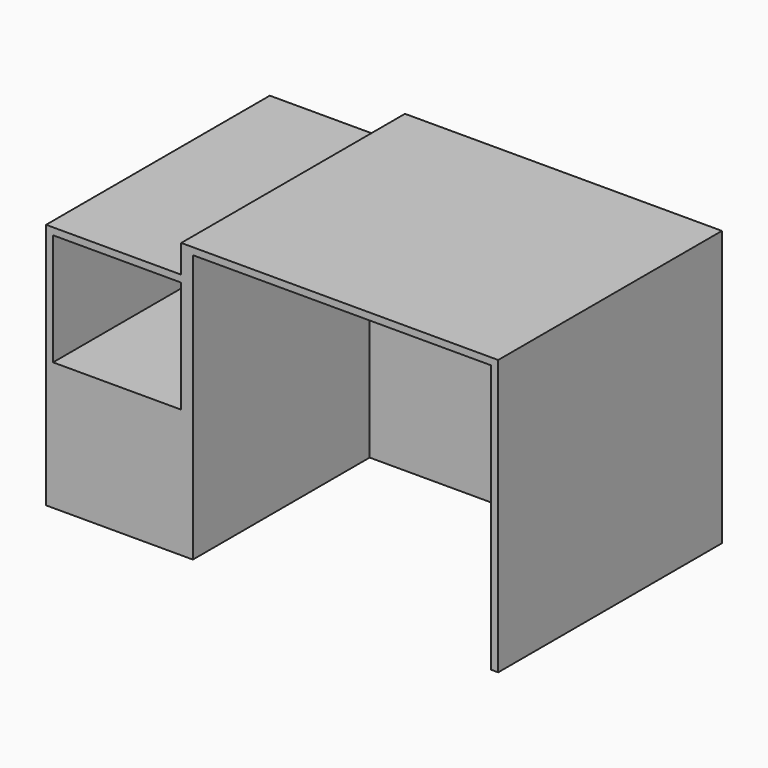
from build123d import *

# Parameters (mm, degrees)
F0_W     = 1231.9
F0_H     = 762
F1_DEPTH = 749.3
F2_W     = 368.3
F2_H     = 762
F3_DEPTH = 76.2
F4_W     = 349.25
F4_H     = 304.8
F5_DEPTH = 601.98


with BuildPart() as f1:
    # F0 (on Top) → F1 (new body)
    with BuildSketch(Plane.XY):
        Rectangle(F0_W, F0_H)
    extrude(amount=F1_DEPTH)

    # F2 (on face) → F3 (cut)
    with BuildSketch(Plane.XY.offset(749.3)):
        with Locations((-431.8, 0)):
            Rectangle(F2_W, F2_H)
    extrude(amount=-F3_DEPTH, mode=Mode.SUBTRACT)

    # F4 (on face) → F5 (cut)
    with BuildSketch(Plane.XZ.offset(381)):
        Polygon((-215.9, 0), (596.9, 0), (596.9, 730.25), (-215.9, 730.25), (-215.9, 654.05), (-215.9, 349.25), (-215.9, 328.718752), align=None)
        with Locations((-422.275, 501.65)):
            Rectangle(F4_W, F4_H)
    extrude(amount=-F5_DEPTH, mode=Mode.SUBTRACT)


solid = f1.part
